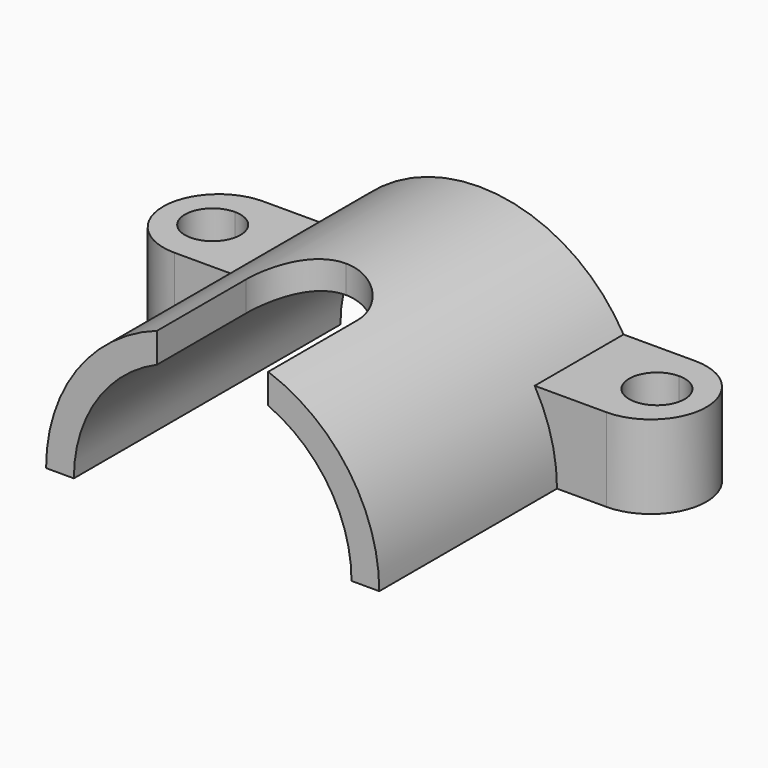
from build123d import *

# Parameters (mm, degrees)
F1_R      = 30
F2_DEPTH  = 60
F4_DEPTH  = 60
F6_DEPTH  = 15
F8_DEPTH  = 60
F10_DEPTH = 30.001
F14_DEPTH = 30.001


with BuildPart() as f2:
    # F1 (on Front) → F2 (new body)
    with BuildSketch(Plane.XZ):
        Circle(F1_R)
    extrude(amount=F2_DEPTH)

    # F3 (on face) → F4 (cut, through all)
    with BuildSketch(Plane.XZ.offset(60)):
        with BuildLine():
            Line((30, 0), (-30, 0))
            ThreePointArc((-30, 0), (0, -30.0890051065), (30, 0))
        make_face()
    extrude(amount=-F4_DEPTH, mode=Mode.SUBTRACT)

    # F5 (on Top) → F6 (join)
    with BuildSketch(Plane.XY):
        with BuildLine():
            ThreePointArc((-38.9062538743, 0), (-48.9062538743, -10), (-38.9062538743, -20))
            Line((-38.9062538743, -20), (38.9062538743, -20))
            ThreePointArc((38.9062538743, -20), (48.9062538743, -10), (38.9062538743, 0))
            Line((38.9062538743, 0), (-38.9062538743, 0))
        make_face()
    extrude(amount=F6_DEPTH)

    # F7 (on face) → F8 (cut, through all)
    with BuildSketch(Plane.XZ.offset(60)):
        with BuildLine():
            Line((-25, 0), (25, 0))
            ThreePointArc((25, 0), (0, 25), (-25, 0))
        make_face()
    extrude(amount=-F8_DEPTH, mode=Mode.SUBTRACT)

    # F9 (on Top) → F10 (cut, through all)
    with BuildSketch(Plane.XY):
        with BuildLine():
            ThreePointArc((-35, -10), (-36.4644660941, -6.4644660941), (-40, -5))
            ThreePointArc((-40, -5), (-43.5355339059, -13.5355339059), (-35, -10))
        make_face()
        with BuildLine():
            ThreePointArc((45, -10), (43.5355339059, -6.4644660941), (40, -5))
            ThreePointArc((40, -5), (36.4644660941, -13.5355339059), (45, -10))
        make_face()
    extrude(amount=F10_DEPTH, mode=Mode.SUBTRACT)

    # F13 (on plane+point) → F14 (cut, through all)
    with BuildSketch(Plane.XY.offset(30)):
        with BuildLine():
            ThreePointArc((10, -40), (7.0710678119, -32.9289321881), (0, -30))
            Line((0, -30), (0, -60))
            Line((0, -60), (10, -60))
            Line((10, -60), (10, -40))
        make_face()
        with BuildLine():
            Line((0, -60), (0, -30))
            ThreePointArc((0, -30), (-7.0710678119, -32.9289321881), (-10, -40))
            Line((-10, -40), (-10, -60))
            Line((-10, -60), (0, -60))
        make_face()
    extrude(amount=-F14_DEPTH, mode=Mode.SUBTRACT)


solid = f2.part
